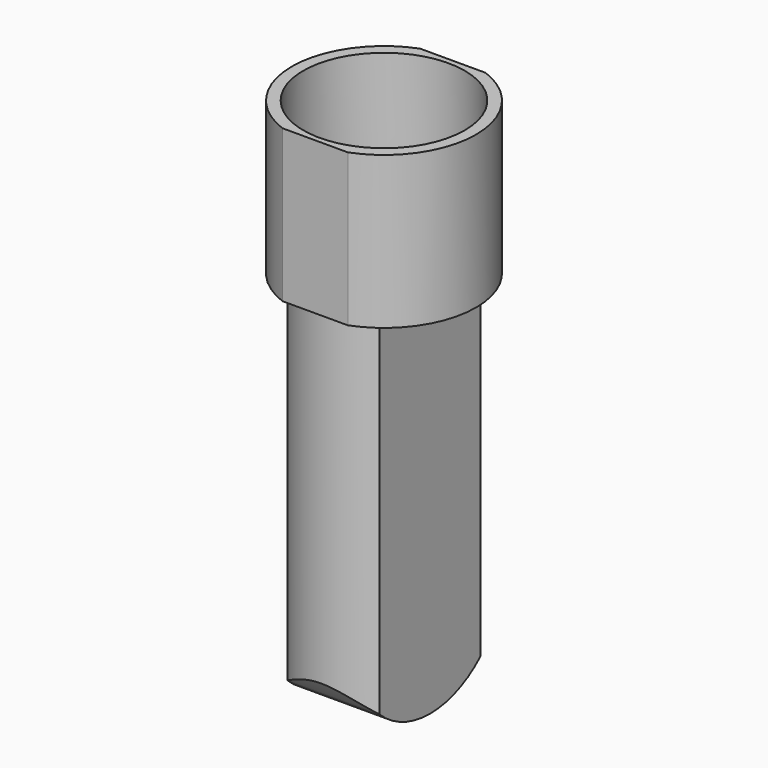
from build123d import *

# Parameters (mm, degrees)
F1_DEPTH = 38
F2_R     = 20.15
F3_DEPTH = 26
F5_DEPTH = 93
F7_DEPTH = 34.501


with BuildPart() as f1:
    # F0 (on Top) → F1 (new body)
    with BuildSketch(Plane.XY):
        with BuildLine():
            Line((8.170067, 21.5), (-8.170067, 21.5))
            ThreePointArc((-8.170067, 21.5), (-23, 0), (-8.170067, -21.5))
            Line((-8.170067, -21.5), (8.170067, -21.5))
            ThreePointArc((8.170067, -21.5), (23, 0), (8.170067, 21.5))
        make_face()
    extrude(amount=F1_DEPTH)

    # F2 (on face) → F3 (cut)
    with BuildSketch(Plane.XY.offset(38)):
        Circle(F2_R)
    extrude(amount=-F3_DEPTH, mode=Mode.SUBTRACT)

    # F4 (on face) → F5 (join)
    with BuildSketch(Plane(origin=(0, 0, 0), x_dir=(1, 0, 0), z_dir=(0, 0, -1))):
        with BuildLine():
            Line((-11.5, 15.748016), (-11.5, -15.748016))
            ThreePointArc((-11.5, -15.748016), (0, -19.5), (11.5, -15.748016))
            Line((11.5, -15.748016), (11.5, 15.748016))
            ThreePointArc((11.5, 15.748016), (0, 19.5), (-11.5, 15.748016))
        make_face()
    extrude(amount=F5_DEPTH)

    # F6 (on face) → F7 (cut, through all)
    with BuildSketch(Plane.YZ.offset(11.5)):
        with BuildLine():
            ThreePointArc((-15.748016, -86.763055), (-22.373164, -75.333061), (-21.616549, -62.143487))
            Line((-21.616549, -62.143487), (-29.770112, -84.577344))
            Line((-29.770112, -84.577344), (-29.770112, -119.441308))
            Line((-29.770112, -119.441308), (50.876636, -113.992207))
            Line((50.876636, -113.992207), (28.370321, -73.64597))
            Line((28.370321, -73.64597), (21.066759, -60.770067))
            ThreePointArc((21.066759, -60.770067), (22.533104, -74.610774), (15.748016, -86.763055))
            Line((15.748016, -86.763055), (15.748016, -93))
            Line((15.748016, -93), (0, -93))
            Line((0, -93), (-15.748016, -93))
            Line((-15.748016, -93), (-15.748016, -86.763055))
        make_face()
        with BuildLine():
            ThreePointArc((0, -93), (-8.469054, -91.383992), (-15.748016, -86.763055))
            Line((-15.748016, -86.763055), (-15.748016, -93))
            Line((-15.748016, -93), (0, -93))
        make_face()
        with BuildLine():
            ThreePointArc((15.748016, -86.763055), (8.469054, -91.383992), (0, -93))
            Line((0, -93), (15.748016, -93))
            Line((15.748016, -93), (15.748016, -86.763055))
        make_face()
    extrude(amount=-F7_DEPTH, mode=Mode.SUBTRACT)


solid = f1.part
